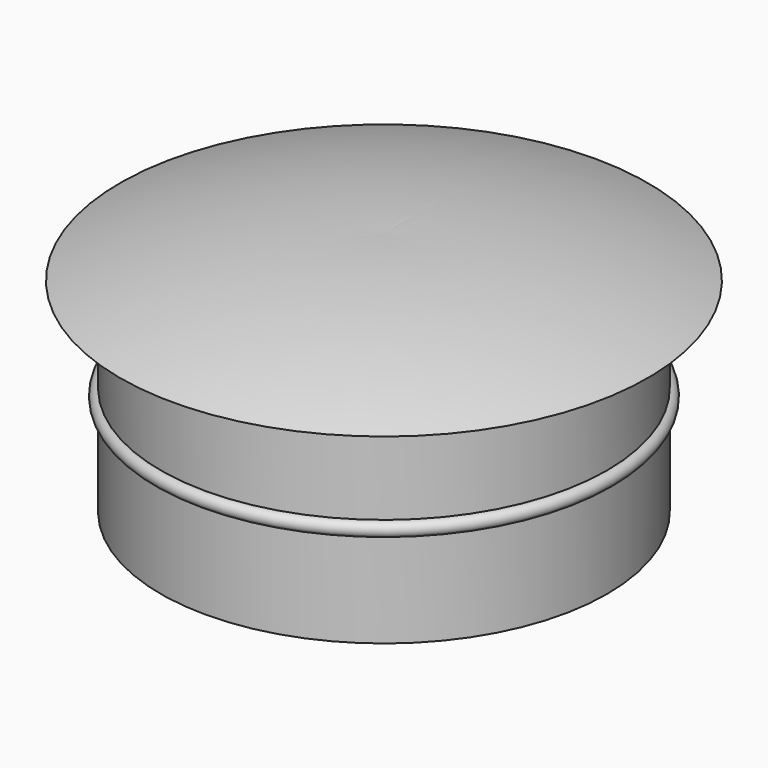
from build123d import *


with BuildPart() as f1:
    # F0 (on Right) → F1 (revolve)
    with BuildSketch(Plane.YZ):
        with BuildLine():
            Line((10.98, -4.649603), (10.98, 0))
            Line((10.98, 0), (12.98, 0))
            ThreePointArc((12.98, 0), (6.584993, 1.628545), (0, 2.06))
            Line((0, 2.06), (0, -1.247563))
            Line((0, -1.247563), (8.892437, -1.247563))
            Line((8.892437, -1.247563), (8.892437, -10))
            Line((8.892437, -10), (10.98, -10))
            Line((10.98, -10), (10.98, -5.35))
            Line((10.98, -5.35), (10.98, -4.649603))
        make_face()
        with BuildLine():
            ThreePointArc((10.98, -5.35), (11.330199, -4.999801), (10.98, -4.649603))
            Line((10.98, -4.649603), (10.98, -5.35))
        make_face()
    revolve(axis=Axis((0, 0, 0.406218), (0, 0, -1)))


solid = f1.part
